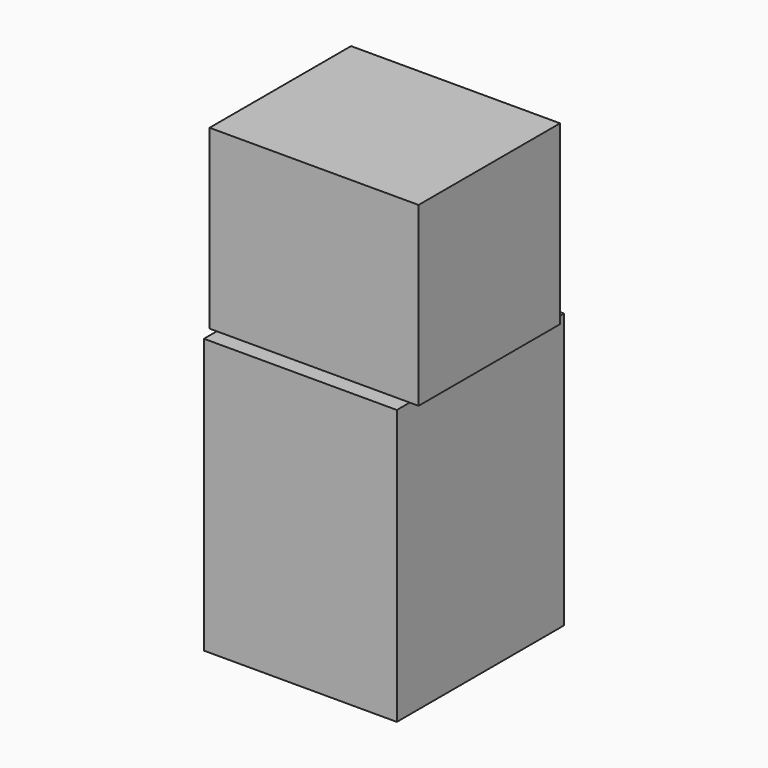
from build123d import *

# Parameters (mm, degrees)
F1_DEPTH = 41.91
F0_W     = 91.44
F0_H     = 130.1496
F2_DEPTH = 49.53


with BuildPart() as f1:
    # F0 (on Front) → F1 (new body, symmetric)
    with BuildSketch(Plane.XZ):
        Polygon((-45.72, 65.0748), (45.72, 65.0748), (49.913929, 65.0748), (49.913929, 148.8948), (-49.146071, 148.8948), (-49.146071, 65.0748), align=None)
    extrude(amount=F1_DEPTH, both=True)

    # F0 (on Front) → F2 (join, symmetric)
    with BuildSketch(Plane.XZ):
        Rectangle(F0_W, F0_H)
    extrude(amount=F2_DEPTH, both=True)


solid = f1.part
